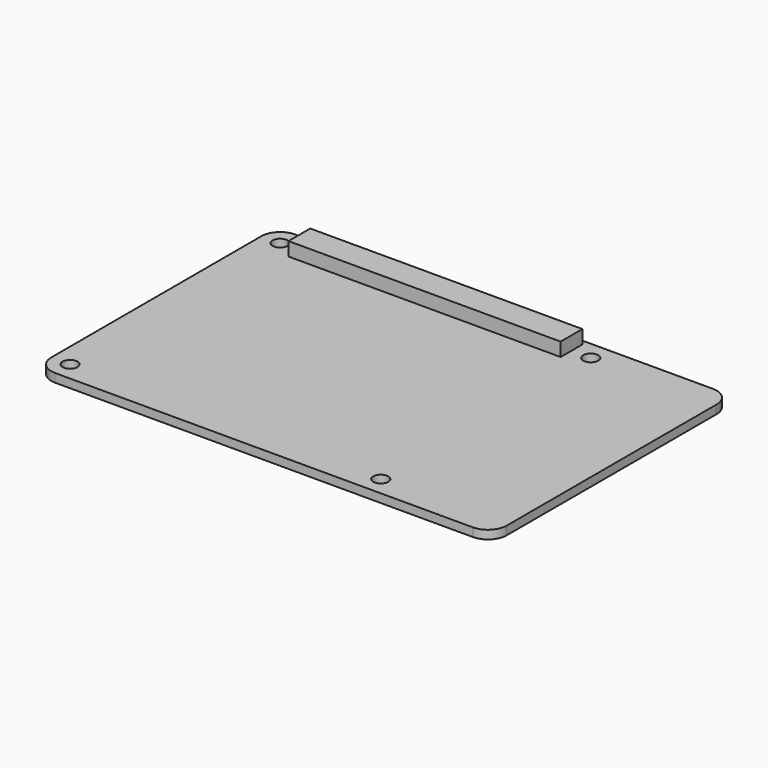
from build123d import *

# Parameters (mm, degrees)
F0_W     = 85
F0_H     = 56
F1_DEPTH = 1.6
F2_D     = 2.8
F3_W     = 50.8
F3_H     = 5.08
F4_DEPTH = 8.5
F5_DEPTH = 4.14
F6_R     = 3.5


with BuildPart() as f1:
    # F0 (on Top) → F1 (new body)
    with BuildSketch(Plane.XY):
        with Locations((10, 0)):
            Rectangle(F0_W, F0_H)
    extrude(amount=F1_DEPTH)

    # F2 (through all)
    with Locations(Plane(origin=(0, 0, 0), x_dir=(1, 0, 0), z_dir=(0, 0, -1))):
        with Locations((-29, 24.5), (29, 24.5), (29, -24.5), (-29, -24.5)):
            Hole(F2_D / 2)

    # F3 (on face) → F4 (join)
    with BuildSketch(Plane(origin=(0, 0, 0), x_dir=(1, 0, 0), z_dir=(0, 0, -1))):
        with Locations((0, -24.5)):
            Rectangle(F3_W, F3_H)
    extrude(amount=F4_DEPTH)

    # F3 (on face) → F5 (join)
    with BuildSketch(Plane(origin=(0, 0, 0), x_dir=(1, 0, 0), z_dir=(0, 0, -1))):
        with Locations((0, -24.5)):
            Rectangle(F3_W, F3_H)
    extrude(amount=-F5_DEPTH)

    # F6
    f6_edges = [f1.edges().sort_by_distance(p)[0] for p in [
        (-32.5, 28, 0.8),
        (-32.5, -28, 0.8),
        (52.5, -28, 0.8),
        (52.5, 28, 0.8),
    ]]
    fillet(f6_edges, radius=F6_R)


solid = f1.part
